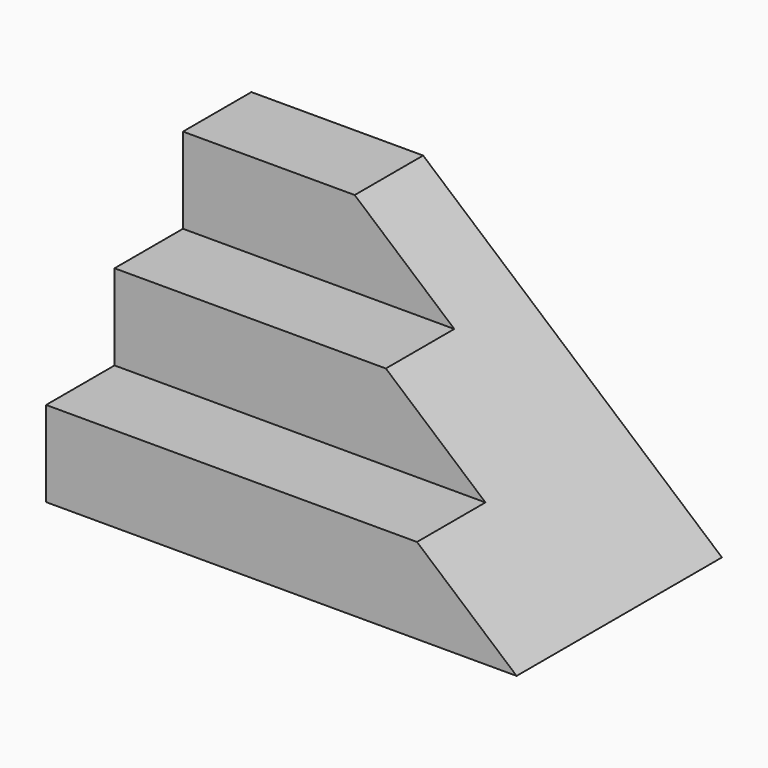
from build123d import *

# Parameters (mm, degrees)
F1_DEPTH = 110
F4_DEPTH = 60.001


with BuildPart() as f1:
    # F0 (on Right) → F1 (new body)
    with BuildSketch(Plane.YZ):
        Polygon((0, 20), (0, 0), (60, 0), (60, 60), (40, 60), (40, 40), (20, 40), (20, 20), align=None)
    extrude(amount=F1_DEPTH)

    # F3 (on face) → F4 (cut, through all)
    with BuildSketch(Plane(origin=(0, 60, 0), x_dir=(-1, 0, 0), z_dir=(0, 1, 0))):
        Polygon((-110, 0), (-40.150438, 60), (-110, 60), align=None)
    extrude(amount=-F4_DEPTH, mode=Mode.SUBTRACT)


solid = f1.part
